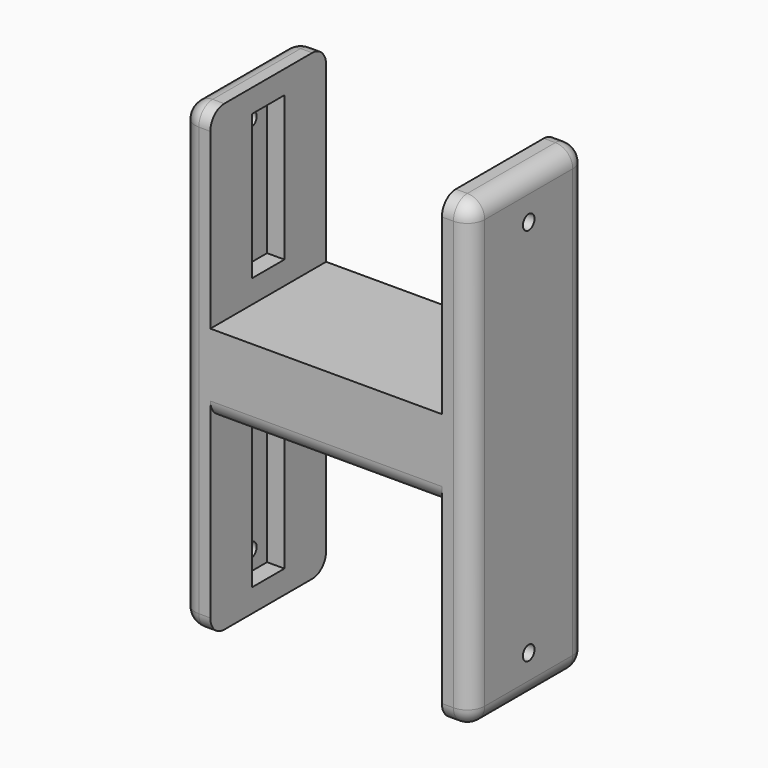
from build123d import *

# Parameters (mm, degrees)
F0_W     = 50
F0_H     = 80
F1_DEPTH = 25
F2_W     = 40
F2_H     = 33
F3_DEPTH = 25.001
F4_W     = 7
F4_H     = 25
F5_DEPTH = 3
F6_R     = 1.25
F7_DEPTH = 50.001
F8_R     = 3


with BuildPart() as f1:
    # F0 (on Front) → F1 (new body)
    with BuildSketch(Plane.XZ):
        with Locations((4.001731, 25.162706)):
            Rectangle(F0_W, F0_H)
    extrude(amount=F1_DEPTH)

    # F2 (on face) → F3 (cut, through all)
    with BuildSketch(Plane.XZ.offset(25)):
        with Locations((4.001731, 1.662706)):
            Rectangle(F2_W, F2_H)
        with Locations((4.001731, 48.662706)):
            Rectangle(F2_W, F2_H)
    extrude(amount=-F3_DEPTH, mode=Mode.SUBTRACT)

    # F4 (on face) → F5 (cut)
    with BuildSketch(Plane.YZ.offset(-15.998269)):
        with Locations((-12.5, 1.662706)):
            Rectangle(F4_W, F4_H)
        with Locations((-12.5, 48.662706)):
            Rectangle(F4_W, F4_H)
    extrude(amount=-F5_DEPTH, mode=Mode.SUBTRACT)

    # F6 (on face) → F7 (cut, through all)
    with BuildSketch(Plane(origin=(-20.998269, 0, 0), x_dir=(0, -1, 0), z_dir=(-1, 0, 0))):
        with Locations((12.5, -7.587294)):
            Circle(F6_R)
        with Locations((12.5, 57.912706)):
            Circle(F6_R)
    extrude(amount=-F7_DEPTH, mode=Mode.SUBTRACT)

    # F8
    f8_edges = [f1.edges().sort_by_distance(p)[0] for p in [
        (29.001731, -12.5, 65.162706),
        (-20.998269, -12.5, 65.162706),
        (-18.498269, 0, 65.162706),
        (26.501731, 0, 65.162706),
        (-18.498269, -25, 65.162706),
        (26.501731, -25, 65.162706),
        (29.001731, -25, 25.162706),
        (29.001731, 0, 25.162706),
        (-20.998269, -25, 25.162706),
        (-20.998269, 0, 25.162706),
        (-20.998269, -12.5, -14.837294),
        (29.001731, -12.5, -14.837294),
        (26.501731, -25, -14.837294),
        (-18.498269, -25, -14.837294),
        (26.501731, 0, -14.837294),
        (-18.498269, 0, -14.837294),
        (4.001731, -25, 18.162706),
        (4.001731, 0, 18.162706),
    ]]
    fillet(f8_edges, radius=F8_R)


solid = f1.part
